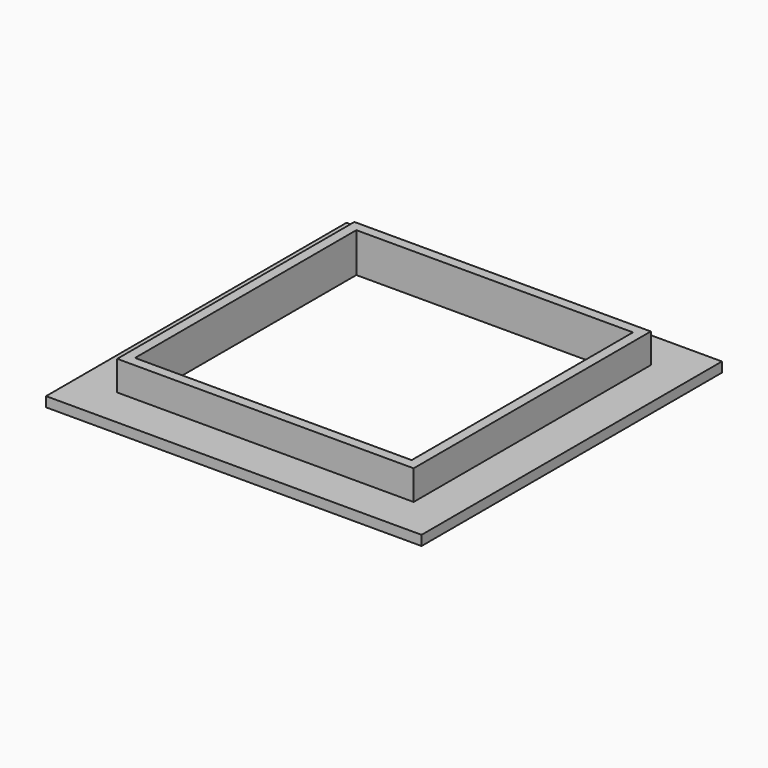
from build123d import *

# Parameters (mm, degrees)
F0_W     = 76
F0_H     = 76
F0_W_2   = 56
F0_H_2   = 56
F1_DEPTH = 2
F2_W     = 60
F2_H     = 60
F2_W_2   = 56
F2_H_2   = 56
F3_DEPTH = 6


with BuildPart() as f1:
    # F0 (on Top) → F1 (new body)
    with BuildSketch(Plane.XY):
        with Locations((28, 28)):
            Rectangle(F0_W, F0_H)
        with Locations((28, 28)):
            Rectangle(F0_W_2, F0_H_2, mode=Mode.SUBTRACT)
    extrude(amount=F1_DEPTH)

    # F2 (on face) → F3 (join)
    with BuildSketch(Plane.XY.offset(2)):
        with Locations((28, 28)):
            Rectangle(F2_W, F2_H)
        with Locations((28, 28)):
            Rectangle(F2_W_2, F2_H_2, mode=Mode.SUBTRACT)
    extrude(amount=F3_DEPTH)


solid = f1.part
